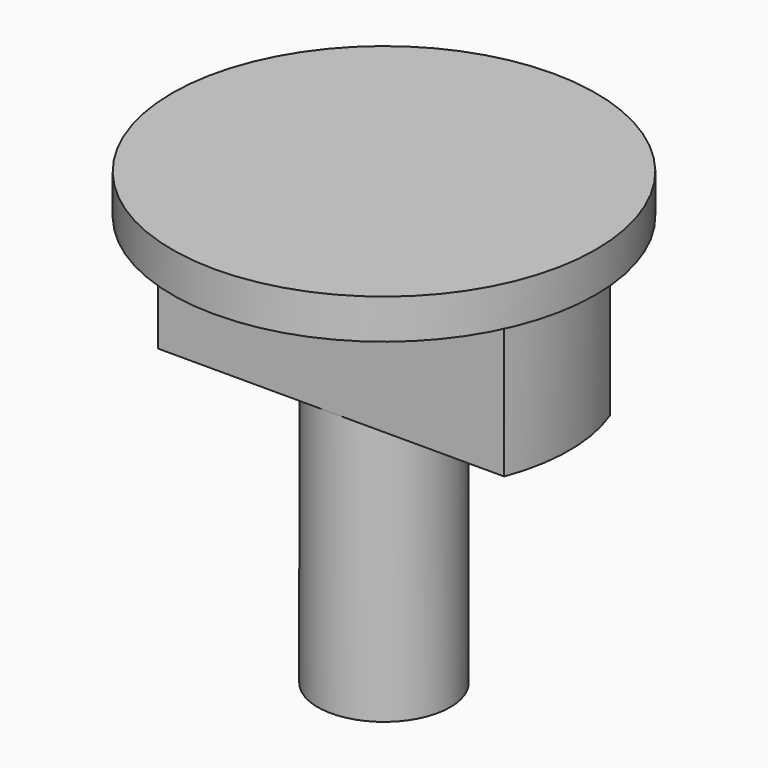
from build123d import *

# Parameters (mm, degrees)
F3_DEPTH = 5.5


with BuildPart() as f1:
    # F0 (on Front) → F1 (revolve)
    with BuildSketch(Plane.XZ):
        Polygon((24.560001, 26.467478), (24.560001, 9.467478), (27.060001, 9.467478), (27.060001, 19.467478), (31.560001, 19.467478), (31.560001, 24.967478), (32.560001, 24.967478), (32.560001, 26.467478), align=None)
    revolve(axis=Axis((24.560001, 0, 17.967478), (0, 0, 1)))

    # F2 (on face) → F3 (cut, through all)
    with BuildSketch(Plane(origin=(0, 0, 19.467478), x_dir=(1, 0, 0), z_dir=(0, 0, -1))):
        Polygon((14.984436, 2.5), (24.560001, 2.5), (33.813246, 2.5), (33.813246, 7.343391), (14.984436, 7.343391), align=None)
        Polygon((33.813246, -2.5), (24.560001, -2.5), (14.984436, -2.5), (14.984436, -7.343391), (33.813246, -7.343391), align=None)
    extrude(amount=-F3_DEPTH, mode=Mode.SUBTRACT)


solid = f1.part
